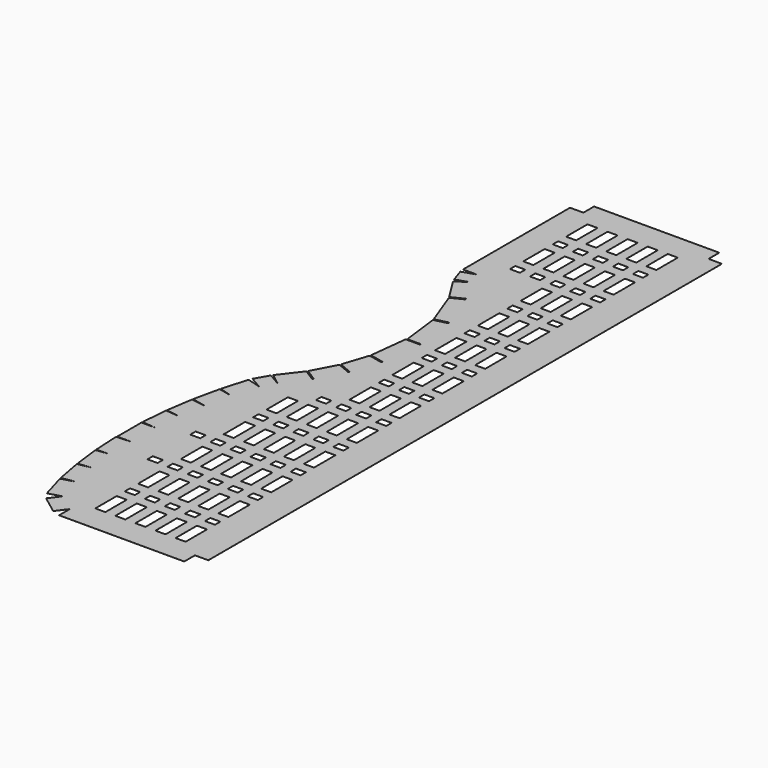
from build123d import *

# Parameters (mm, degrees)
F1_DEPTH = 0.0254
F2_W     = 9.525
F2_H     = 25.4
F2_H_2   = 6.35
F3_DEPTH = 0.0264


with BuildPart() as f1:
    # F0 (on Top) → F1 (new body)
    with BuildSketch(Plane.XY):
        with BuildLine():
            Line((0, -609.6), (0, -622.3))
            Line((0, -622.3), (118.8466, -622.3))
            Line((118.8466, -622.3), (118.8466, -609.6))
            Line((118.8466, -609.6), (131.5466, -609.6))
            Line((131.5466, -609.6), (131.5466, 0))
            Line((131.5466, 0), (118.8466, 0))
            Line((118.8466, 0), (118.8466, 12.7))
            Line((118.8466, 12.7), (0, 12.7))
            Line((0, 12.7), (0, 0))
            Line((0, 0), (-12.7, 0))
            Line((-12.7, 0), (-12.7, -127))
            Line((-12.7, -127), (0, -127))
            Line((0, -127), (-12.06606, -130.962347))
            Line((-12.06606, -130.962347), (-7.895535, -143.662347))
            Line((-7.895535, -143.662347), (4.170525, -139.7))
            Line((4.170525, -139.7), (-6.586224, -146.451469))
            Line((-6.586224, -146.451469), (6.916714, -167.964969))
            Line((6.916714, -167.964969), (18.268382, -162.348782))
            ThreePointArc((18.268382, -162.348782), (18.559682, -162.9123), (18.848896, -163.476891))
            Line((18.848896, -163.476891), (7.533593, -169.075086))
            Line((7.533593, -169.075086), (20.236601, -202.993772))
            Line((20.236601, -202.993772), (32.497764, -199.990968))
            ThreePointArc((32.497764, -199.990968), (32.649955, -200.607462), (32.799864, -201.224514))
            Line((32.799864, -201.224514), (20.538701, -204.227318))
            Line((20.538701, -204.227318), (24.946822, -240.177452))
            Line((24.946822, -240.177452), (37.570527, -240.167926))
            ThreePointArc((37.570527, -240.167926), (37.573384, -240.651858), (37.574876, -241.135796))
            Line((37.574876, -241.135796), (24.125287, -241.145946))
            Line((24.125287, -241.145946), (20.040474, -277.13425))
            Line((20.040474, -277.13425), (33.182476, -279.99921))
            ThreePointArc((33.182476, -279.99921), (33.038732, -280.616993), (32.892705, -281.234241))
            Line((32.892705, -281.234241), (19.708245, -278.360025))
            Line((19.708245, -278.360025), (11.808986, -302.500483))
            Line((11.808986, -302.500483), (24.231865, -307.762675))
            ThreePointArc((24.231865, -307.762675), (23.985272, -308.34784), (23.736514, -308.932088))
            Line((23.736514, -308.932088), (11.313636, -303.669896))
            Line((11.313636, -303.669896), (-0.530534, -326.139334))
            Line((-0.530534, -326.139334), (10.831216, -333.41458))
            ThreePointArc((10.831216, -333.41458), (10.489782, -333.949977), (10.146369, -334.484106))
            Line((10.146369, -334.484106), (-1.215381, -327.208859))
            Line((-1.215381, -327.208859), (-16.667499, -347.368027))
            Line((-16.667499, -347.368027), (-5.927889, -355.6))
            Line((-5.927889, -355.6), (-17.660729, -348.858704))
            Line((-17.660729, -348.858704), (-24.957723, -361.558704))
            Line((-24.957723, -361.558704), (-13.224883, -368.3))
            Line((-13.224883, -368.3), (-26.221105, -364.531337))
            Line((-26.221105, -364.531337), (-33.295207, -388.926359))
            Line((-33.295207, -388.926359), (-20.298986, -392.695021))
            Line((-20.298986, -392.695021), (-33.514876, -389.78902))
            Line((-33.514876, -389.78902), (-38.978828, -414.594367))
            Line((-38.978828, -414.594367), (-25.76401, -417.505237))
            Line((-25.76401, -417.505237), (-39.140873, -415.464617))
            Line((-39.140873, -415.464617), (-42.971291, -440.574135))
            Line((-42.971291, -440.574135), (-29.594428, -442.614755))
            Line((-29.594428, -442.614755), (-43.076082, -441.453031))
            Line((-43.076082, -441.453031), (-45.256737, -466.75925))
            Line((-45.256737, -466.75925), (-31.775083, -467.920974))
            Line((-31.775083, -467.920974), (-45.306698, -467.920974))
            Line((-45.306698, -467.920974), (-45.306698, -496.723745))
            Line((-45.306698, -496.723745), (-32.240184, -496.723745))
            Line((-32.240184, -496.723745), (-45.752317, -497.44958))
            Line((-45.752317, -497.44958), (-44.389864, -522.813013))
            Line((-44.389864, -522.813013), (-30.87773, -522.087178))
            Line((-30.87773, -522.087178), (-44.313504, -523.694834))
            Line((-44.313504, -523.694834), (-41.295797, -548.914934))
            Line((-41.295797, -548.914934), (-27.860022, -547.307278))
            Line((-27.860022, -547.307278), (-41.16195, -549.789877))
            Line((-41.16195, -549.789877), (-36.5019, -574.758736))
            Line((-36.5019, -574.758736), (-23.199972, -572.276137))
            Line((-23.199972, -572.276137), (-36.19453, -576.050531))
            Line((-36.19453, -576.050531), (-29.109669, -600.44243))
            Line((-29.109669, -600.44243), (-16.91372, -596.9))
            Line((-16.91372, -596.9), (-24.539371, -607.055759))
            Line((-24.539371, -607.055759), (-7.625652, -619.755759))
            Line((-7.625652, -619.755759), (0, -609.6))
        make_face()
    extrude(amount=F1_DEPTH)

    # F2 (on Top) → F3 (cut, through all)
    with BuildSketch(Plane.XY):
        with Locations((95.0341, -25.4)):
            Rectangle(F2_W, F2_H)
        with Locations((95.0341, -50.8)):
            Rectangle(F2_W, F2_H_2)
        with Locations((95.0341, -101.6)):
            Rectangle(F2_W, F2_H_2)
        with Locations((95.0341, -76.2)):
            Rectangle(F2_W, F2_H)
        with Locations((95.0341, -152.4)):
            Rectangle(F2_W, F2_H_2)
        with Locations((95.0341, -127)):
            Rectangle(F2_W, F2_H)
        with Locations((95.0341, -203.2)):
            Rectangle(F2_W, F2_H_2)
        with Locations((95.0341, -177.8)):
            Rectangle(F2_W, F2_H)
        with Locations((95.0341, -254)):
            Rectangle(F2_W, F2_H_2)
        with Locations((95.0341, -228.6)):
            Rectangle(F2_W, F2_H)
        with Locations((95.0341, -304.8)):
            Rectangle(F2_W, F2_H_2)
        with Locations((95.0341, -279.4)):
            Rectangle(F2_W, F2_H)
        with Locations((95.0341, -355.6)):
            Rectangle(F2_W, F2_H_2)
        with Locations((95.0341, -330.2)):
            Rectangle(F2_W, F2_H)
        with Locations((95.0341, -406.4)):
            Rectangle(F2_W, F2_H_2)
        with Locations((95.0341, -381)):
            Rectangle(F2_W, F2_H)
        with Locations((95.0341, -457.2)):
            Rectangle(F2_W, F2_H_2)
        with Locations((95.0341, -431.8)):
            Rectangle(F2_W, F2_H)
        with Locations((95.0341, -508)):
            Rectangle(F2_W, F2_H_2)
        with Locations((95.0341, -482.6)):
            Rectangle(F2_W, F2_H)
        with Locations((95.0341, -558.8)):
            Rectangle(F2_W, F2_H_2)
        with Locations((95.0341, -533.4)):
            Rectangle(F2_W, F2_H)
        with Locations((95.0341, -584.2)):
            Rectangle(F2_W, F2_H)
        with Locations((75.9841, -50.8)):
            Rectangle(F2_W, F2_H_2)
        with Locations((75.9841, -25.4)):
            Rectangle(F2_W, F2_H)
        with Locations((75.9841, -101.6)):
            Rectangle(F2_W, F2_H_2)
        with Locations((75.9841, -76.2)):
            Rectangle(F2_W, F2_H)
        with Locations((75.9841, -152.4)):
            Rectangle(F2_W, F2_H_2)
        with Locations((75.9841, -127)):
            Rectangle(F2_W, F2_H)
        with Locations((75.9841, -203.2)):
            Rectangle(F2_W, F2_H_2)
        with Locations((75.9841, -177.8)):
            Rectangle(F2_W, F2_H)
        with Locations((75.9841, -254)):
            Rectangle(F2_W, F2_H_2)
        with Locations((75.9841, -228.6)):
            Rectangle(F2_W, F2_H)
        with Locations((75.9841, -304.8)):
            Rectangle(F2_W, F2_H_2)
        with Locations((75.9841, -279.4)):
            Rectangle(F2_W, F2_H)
        with Locations((75.9841, -355.6)):
            Rectangle(F2_W, F2_H_2)
        with Locations((75.9841, -330.2)):
            Rectangle(F2_W, F2_H)
        with Locations((75.9841, -406.4)):
            Rectangle(F2_W, F2_H_2)
        with Locations((75.9841, -381)):
            Rectangle(F2_W, F2_H)
        with Locations((75.9841, -457.2)):
            Rectangle(F2_W, F2_H_2)
        with Locations((75.9841, -431.8)):
            Rectangle(F2_W, F2_H)
        with Locations((75.9841, -508)):
            Rectangle(F2_W, F2_H_2)
        with Locations((75.9841, -482.6)):
            Rectangle(F2_W, F2_H)
        with Locations((75.9841, -558.8)):
            Rectangle(F2_W, F2_H_2)
        with Locations((75.9841, -533.4)):
            Rectangle(F2_W, F2_H)
        with Locations((75.9841, -584.2)):
            Rectangle(F2_W, F2_H)
        with Locations((56.9341, -50.8)):
            Rectangle(F2_W, F2_H_2)
        with Locations((56.9341, -25.4)):
            Rectangle(F2_W, F2_H)
        with Locations((56.9341, -101.6)):
            Rectangle(F2_W, F2_H_2)
        with Locations((56.9341, -76.2)):
            Rectangle(F2_W, F2_H)
        with Locations((56.9341, -152.4)):
            Rectangle(F2_W, F2_H_2)
        with Locations((56.9341, -127)):
            Rectangle(F2_W, F2_H)
        with Locations((56.9341, -203.2)):
            Rectangle(F2_W, F2_H_2)
        with Locations((56.9341, -177.8)):
            Rectangle(F2_W, F2_H)
        with Locations((56.9341, -254)):
            Rectangle(F2_W, F2_H_2)
        with Locations((56.9341, -228.6)):
            Rectangle(F2_W, F2_H)
        with Locations((56.9341, -304.8)):
            Rectangle(F2_W, F2_H_2)
        with Locations((56.9341, -279.4)):
            Rectangle(F2_W, F2_H)
        with Locations((56.9341, -355.6)):
            Rectangle(F2_W, F2_H_2)
        with Locations((56.9341, -330.2)):
            Rectangle(F2_W, F2_H)
        with Locations((56.9341, -406.4)):
            Rectangle(F2_W, F2_H_2)
        with Locations((56.9341, -381)):
            Rectangle(F2_W, F2_H)
        with Locations((56.9341, -457.2)):
            Rectangle(F2_W, F2_H_2)
        with Locations((56.9341, -431.8)):
            Rectangle(F2_W, F2_H)
        with Locations((56.9341, -508)):
            Rectangle(F2_W, F2_H_2)
        with Locations((56.9341, -482.6)):
            Rectangle(F2_W, F2_H)
        with Locations((56.9341, -558.8)):
            Rectangle(F2_W, F2_H_2)
        with Locations((56.9341, -533.4)):
            Rectangle(F2_W, F2_H)
        with Locations((56.9341, -584.2)):
            Rectangle(F2_W, F2_H)
        with Locations((37.8841, -50.8)):
            Rectangle(F2_W, F2_H_2)
        with Locations((37.8841, -25.4)):
            Rectangle(F2_W, F2_H)
        with Locations((37.8841, -101.6)):
            Rectangle(F2_W, F2_H_2)
        with Locations((37.8841, -76.2)):
            Rectangle(F2_W, F2_H)
        with Locations((37.8841, -355.6)):
            Rectangle(F2_W, F2_H_2)
        with Locations((37.8841, -406.4)):
            Rectangle(F2_W, F2_H_2)
        with Locations((37.8841, -381)):
            Rectangle(F2_W, F2_H)
        with Locations((37.8841, -457.2)):
            Rectangle(F2_W, F2_H_2)
        with Locations((37.8841, -431.8)):
            Rectangle(F2_W, F2_H)
        with Locations((37.8841, -508)):
            Rectangle(F2_W, F2_H_2)
        with Locations((37.8841, -482.6)):
            Rectangle(F2_W, F2_H)
        with Locations((37.8841, -558.8)):
            Rectangle(F2_W, F2_H_2)
        with Locations((37.8841, -533.4)):
            Rectangle(F2_W, F2_H)
        with Locations((37.8841, -584.2)):
            Rectangle(F2_W, F2_H)
        with Locations((18.8341, -50.8)):
            Rectangle(F2_W, F2_H_2)
        with Locations((18.8341, -25.4)):
            Rectangle(F2_W, F2_H)
        with Locations((18.8341, -101.6)):
            Rectangle(F2_W, F2_H_2)
        with Locations((18.8341, -76.2)):
            Rectangle(F2_W, F2_H)
        with Locations((18.8341, -406.4)):
            Rectangle(F2_W, F2_H_2)
        with Locations((18.8341, -381)):
            Rectangle(F2_W, F2_H)
        with Locations((18.8341, -457.2)):
            Rectangle(F2_W, F2_H_2)
        with Locations((18.8341, -431.8)):
            Rectangle(F2_W, F2_H)
        with Locations((18.8341, -508)):
            Rectangle(F2_W, F2_H_2)
        with Locations((18.8341, -482.6)):
            Rectangle(F2_W, F2_H)
        with Locations((18.8341, -558.8)):
            Rectangle(F2_W, F2_H_2)
        with Locations((18.8341, -533.4)):
            Rectangle(F2_W, F2_H)
        with Locations((18.8341, -584.2)):
            Rectangle(F2_W, F2_H)
        with Locations((-0.2159, -457.2)):
            Rectangle(F2_W, F2_H_2)
        with Locations((-0.2159, -508)):
            Rectangle(F2_W, F2_H_2)
    extrude(amount=F3_DEPTH, mode=Mode.SUBTRACT)


solid = f1.part
